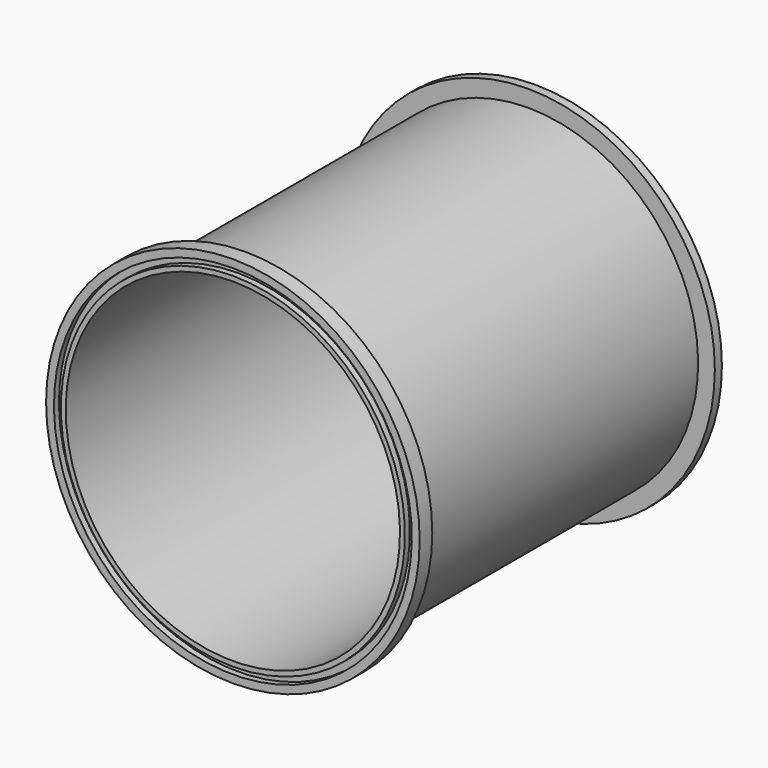
from build123d import *


with BuildPart() as f1:
    # F0 (on Right) → F1 (revolve)
    with BuildSketch(Plane.YZ):
        Polygon((14.795787, 190), (-1.204213, 190), (-1.204213, 182), (5.124591, 182), (5.124591, 175), (-1.204213, 175), (-1.204213, 170), (14.795787, 170), (14.795787, 173), align=None)
        Polygon((374.042881, 173), (14.795787, 173), (14.795787, 170), (383.051113, 170), (383.051113, 190), (374.042881, 190), align=None)
    revolve(axis=Axis((0, 170.682043, 0), (0, 1, 0)))


solid = f1.part
